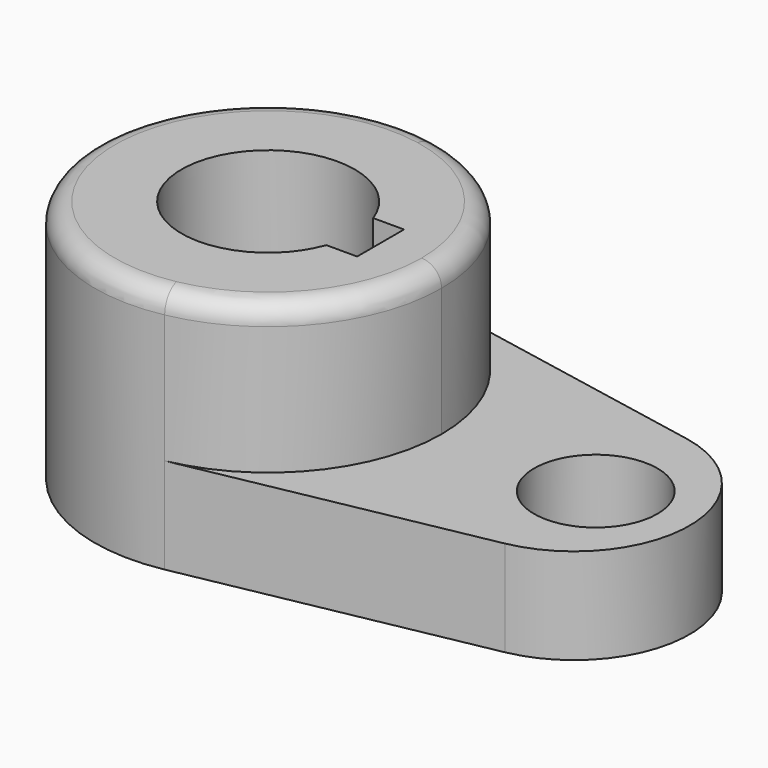
from build123d import *

# Parameters (mm, degrees)
F0_R     = 10.16
F1_DEPTH = 15.7734
F2_DEPTH = 40.2336
F3_R     = 3.302


with BuildPart() as f1:
    # F0 (on Top) → F1 (new body)
    with BuildSketch(Plane.XY):
        with BuildLine():
            ThreePointArc((5.403247, 28.0595), (22.033252, 18.195231), (28.575, 0))
            ThreePointArc((28.575, 0), (22.033252, -18.195231), (5.403247, -28.0595))
            Line((5.403247, -28.0595), (53.975, -18.706333))
            ThreePointArc((53.975, -18.706333), (69.422835, 0), (53.975, 18.706333))
            Line((53.975, 18.706333), (5.403247, 28.0595))
        make_face()
        with Locations((53.975, 0)):
            Circle(F0_R, mode=Mode.SUBTRACT)
    extrude(amount=F1_DEPTH)

    # F0 (on Top) → F2 (join)
    with BuildSketch(Plane.XY):
        with BuildLine():
            ThreePointArc((5.403247, -28.0595), (22.033252, -18.195231), (28.575, 0))
            ThreePointArc((28.575, 0), (22.033252, 18.195231), (5.403247, 28.0595))
            ThreePointArc((5.403247, 28.0595), (-28.575, 0), (5.403247, -28.0595))
        make_face()
        with BuildLine():
            ThreePointArc((13.447765, -4.826), (-14.2875, 0), (13.447765, 4.826))
            Line((13.447765, 4.826), (18.5293, 4.826))
            Line((18.5293, 4.826), (18.5293, 0))
            Line((18.5293, 0), (18.5293, -4.826))
            Line((18.5293, -4.826), (13.447765, -4.826))
        make_face(mode=Mode.SUBTRACT)
    extrude(amount=F2_DEPTH)

    # F3
    f3_edges = [f1.edges().sort_by_distance(p)[0] for p in [
        (-5.403247, 28.0595, 40.2336),
    ]]
    fillet(f3_edges, radius=F3_R)


solid = f1.part
